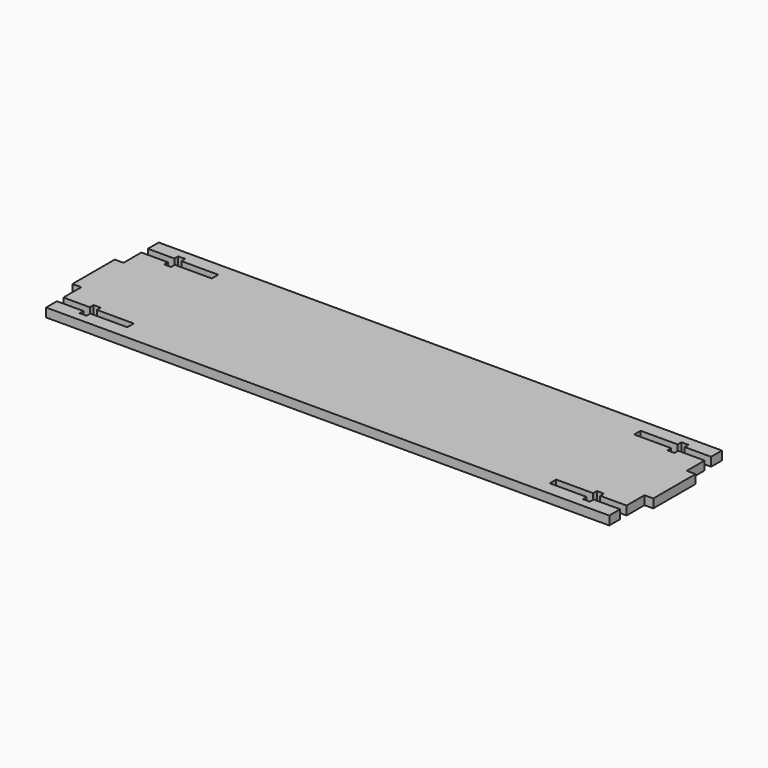
from build123d import *

# Parameters (mm, degrees)
F1_DEPTH = 3.175


with BuildPart() as f1:
    # F0 (on Top) → F1 (new body)
    with BuildSketch(Plane.XY):
        Polygon((101.6, 25.4), (0, 25.4), (-101.6, 25.4), (-101.6, 20.5105), (-92.075, 20.5105), (-92.075, 22.225), (-89.535, 22.225), (-89.535, 20.5105), (-76.2, 20.5105), (-76.2, 17.5895), (-89.535, 17.5895), (-89.535, 15.875), (-92.075, 15.875), (-92.075, 17.5895), (-101.6, 17.5895), (-101.6, 9.526501), (-104.775, 9.526501), (-104.775, 0), (-104.775, -9.526501), (-101.6, -9.526501), (-101.6, -17.5895), (-92.075, -17.5895), (-92.075, -15.875), (-89.535, -15.875), (-89.535, -17.5895), (-76.2, -17.5895), (-76.2, -20.5105), (-89.535, -20.5105), (-89.535, -22.225), (-92.075, -22.225), (-92.075, -20.5105), (-101.6, -20.5105), (-101.6, -25.4), (0, -25.4), (101.6, -25.4), (101.6, -20.5105), (92.075, -20.5105), (92.075, -22.225), (89.535, -22.225), (89.535, -20.5105), (76.2, -20.5105), (76.2, -17.5895), (89.535, -17.5895), (89.535, -15.875), (92.075, -15.875), (92.075, -17.5895), (101.6, -17.5895), (101.6, -9.526501), (104.775, -9.526501), (104.775, 0), (104.775, 9.526501), (101.6, 9.526501), (101.6, 17.5895), (92.075, 17.5895), (92.075, 15.875), (89.535, 15.875), (89.535, 17.5895), (76.2, 17.5895), (76.2, 20.5105), (89.535, 20.5105), (89.535, 22.225), (92.075, 22.225), (92.075, 20.5105), (101.6, 20.5105), align=None)
    extrude(amount=F1_DEPTH)


solid = f1.part
